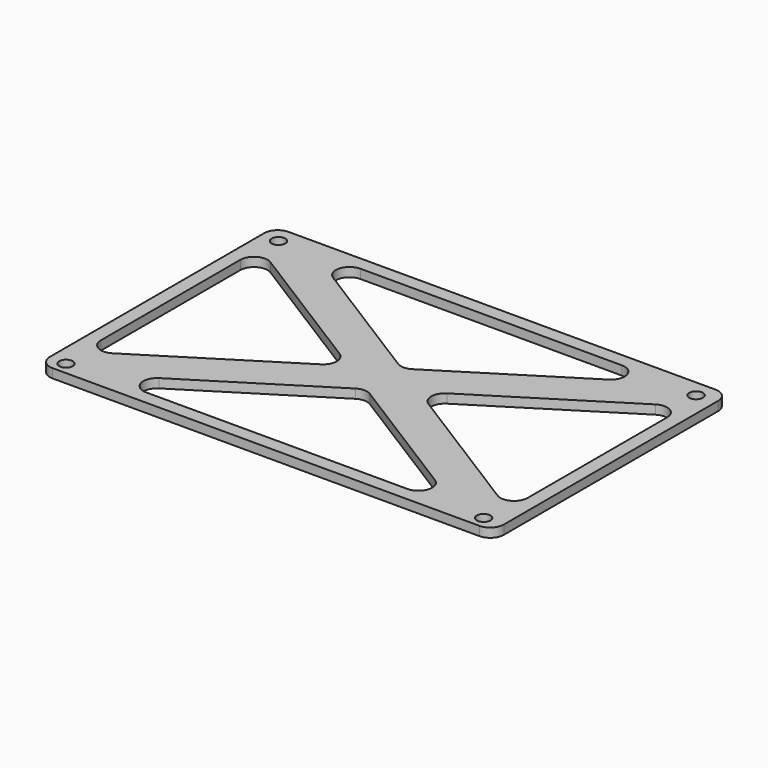
from build123d import *

# Parameters (mm, degrees)
F0_R     = 1.5
F1_DEPTH = 2


with BuildPart() as f1:
    # F0 (on Top) → F1 (new body)
    with BuildSketch(Plane.XY):
        with BuildLine():
            Line((-49.651527, 3.75), (-52.651527, 3.75))
            ThreePointArc((-52.651527, 3.75), (-54.772848, 2.87132), (-55.651527, 0.75))
            Line((-55.651527, 0.75), (-55.651527, -2.25))
            Line((-55.651527, -2.25), (-55.651527, -55.25))
            Line((-55.651527, -55.25), (-55.651527, -58.25))
            ThreePointArc((-55.651527, -58.25), (-54.772848, -60.37132), (-52.651527, -61.25))
            Line((-52.651527, -61.25), (-49.651527, -61.25))
            Line((-49.651527, -61.25), (38.348473, -61.25))
            Line((38.348473, -61.25), (41.348473, -61.25))
            ThreePointArc((41.348473, -61.25), (43.469793, -60.37132), (44.348473, -58.25))
            Line((44.348473, -58.25), (44.348473, -55.25))
            Line((44.348473, -55.25), (44.348473, -2.25))
            Line((44.348473, -2.25), (44.348473, 0.75))
            ThreePointArc((44.348473, 0.75), (43.469793, 2.87132), (41.348473, 3.75))
            Line((41.348473, 3.75), (38.348473, 3.75))
            Line((38.348473, 3.75), (-49.651527, 3.75))
        make_face()
        with Locations((-51.901527, -58.5)):
            Circle(F0_R, mode=Mode.SUBTRACT)
        with BuildLine():
            ThreePointArc((-34.449054, -58.25), (-37.332009, -56.079801), (-36.043907, -52.709047))
            Line((-36.043907, -52.709047), (-7.246381, -34.634004))
            ThreePointArc((-7.246381, -34.634004), (-5.651527, -34.174957), (-4.056674, -34.634004))
            Line((-4.056674, -34.634004), (24.740853, -52.709047))
            ThreePointArc((24.740853, -52.709047), (26.028954, -56.079801), (23.145999, -58.25))
            Line((23.145999, -58.25), (-34.449054, -58.25))
        make_face(mode=Mode.SUBTRACT)
        with Locations((40.098473, -58.5)):
            Circle(F0_R, mode=Mode.SUBTRACT)
        with BuildLine():
            ThreePointArc((-52.651527, -9.557936), (-51.103326, -6.93262), (-48.056674, -7.016983))
            Line((-48.056674, -7.016983), (-17.479486, -26.209047))
            ThreePointArc((-17.479486, -26.209047), (-16.07434, -28.75), (-17.479486, -31.290953))
            Line((-17.479486, -31.290953), (-48.056674, -50.483017))
            ThreePointArc((-48.056674, -50.483017), (-51.103326, -50.56738), (-52.651527, -47.942064))
            Line((-52.651527, -47.942064), (-52.651527, -9.557936))
        make_face(mode=Mode.SUBTRACT)
        with Locations((-51.901527, 0)):
            Circle(F0_R, mode=Mode.SUBTRACT)
        with BuildLine():
            Line((36.753619, -50.483017), (6.176432, -31.290953))
            ThreePointArc((6.176432, -31.290953), (4.771285, -28.75), (6.176432, -26.209047))
            Line((6.176432, -26.209047), (36.753619, -7.016983))
            ThreePointArc((36.753619, -7.016983), (39.800272, -6.93262), (41.348473, -9.557936))
            Line((41.348473, -9.557936), (41.348473, -47.942064))
            ThreePointArc((41.348473, -47.942064), (39.800272, -50.56738), (36.753619, -50.483017))
        make_face(mode=Mode.SUBTRACT)
        with BuildLine():
            Line((-7.246381, -22.865996), (-36.043907, -4.790953))
            ThreePointArc((-36.043907, -4.790953), (-37.332009, -1.420199), (-34.449054, 0.75))
            Line((-34.449054, 0.75), (23.145999, 0.75))
            ThreePointArc((23.145999, 0.75), (26.028954, -1.420199), (24.740853, -4.790953))
            Line((24.740853, -4.790953), (-4.056674, -22.865996))
            ThreePointArc((-4.056674, -22.865996), (-5.651527, -23.325043), (-7.246381, -22.865996))
        make_face(mode=Mode.SUBTRACT)
        with Locations((40.098473, 0)):
            Circle(F0_R, mode=Mode.SUBTRACT)
    extrude(amount=F1_DEPTH)


solid = f1.part
